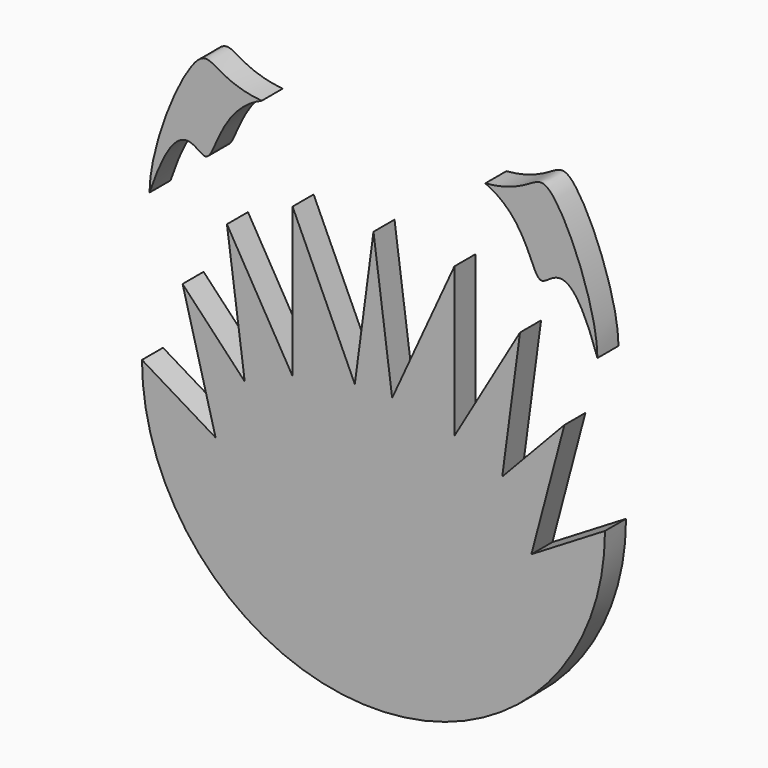
from build123d import *

# Parameters (mm, degrees)
F1_DEPTH = 5.08


with BuildPart() as f1:
    # F0 (on Front) → F1 (new body)
    with BuildSketch(Plane.XZ):
        with BuildLine():
            Line((-30.4917079704, -8.5969122879), (-44.7117361696, 0))
            ThreePointArc((-44.7117361696, 0), (0, -44.7117361696), (44.7117361696, 0))
            Line((44.7117361696, 0), (30.4917079704, -8.5969122879))
            Line((30.4917079704, -8.5969122879), (36.8702813996, 15.4620256321))
            Line((36.8702813996, 15.4620256321), (24.8657964922, 2.7749148631))
            Line((24.8657964922, 2.7749148631), (28.3017228247, 28.4015839336))
            Line((28.3017228247, 28.4015839336), (15.6278407007, 6.6893406487))
            Line((15.6278407007, 6.6893406487), (15.6278407007, 35.5272355899))
            Line((15.6278407007, 35.5272355899), (3.6053249558, 9.237256494))
            Line((3.6053249558, 9.237256494), (0, 36.3292721449))
            Line((0, 36.3292721449), (-3.6053249558, 9.237256494))
            Line((-3.6053249558, 9.237256494), (-15.6278407007, 35.5272355899))
            Line((-15.6278407007, 35.5272355899), (-15.6278407007, 6.6893406487))
            Line((-15.6278407007, 6.6893406487), (-28.3017228247, 28.4015839336))
            Line((-28.3017228247, 28.4015839336), (-24.8657964922, 2.7749148631))
            Line((-24.8657964922, 2.7749148631), (-36.8702813996, 15.4620256321))
            Line((-36.8702813996, 15.4620256321), (-30.4917079704, -8.5969122879))
        make_face()
    extrude(amount=F1_DEPTH)


with BuildPart() as f1b:
    # F0 (on Front) → F1, piece 2 (new body)
    with BuildSketch(Plane.XZ):
        with BuildLine():
            add(Edge.make_bspline(
                [(-43.2581901172, 28.9142417867), (-43.2581901172, 37.2790971041), (-32.8213132961, 62.5909789579), (-29.919565422, 52.343014737), (-21.5866644317, 51.5744184906)],
                knots=[0, 0, 0, 0, 0.6002335301, 1, 1, 1, 1], degree=3))
            add(Edge.make_bspline(
                [(-43.2581901172, 28.9142417867), (-37.5419406421, 45.9948715537), (-30.8065651402, 30.2143125781), (-29.919565422, 48.017363362), (-21.5866644317, 51.5744184906)],
                knots=[0, 0, 0, 0, 0.4810173452, 1, 1, 1, 1], degree=3))
        make_face()
    extrude(amount=F1_DEPTH)


with BuildPart() as f1c:
    # F0 (on Front) → F1, piece 3 (new body)
    with BuildSketch(Plane.XZ):
        with BuildLine():
            add(Edge.make_bspline(
                [(43.2581901172, 28.9142417867), (37.5419406421, 45.9948715537), (30.8065651402, 30.2143125781), (29.919565422, 48.017363362), (21.5866644317, 51.5744184906)],
                knots=[0, 0, 0, 0, 0.4810173452, 1, 1, 1, 1], degree=3))
            add(Edge.make_bspline(
                [(43.2581901172, 28.9142417867), (43.2581901172, 37.2790971041), (32.8213132961, 62.5909789579), (29.919565422, 52.343014737), (21.5866644317, 51.5744184906)],
                knots=[0, 0, 0, 0, 0.6002335301, 1, 1, 1, 1], degree=3))
        make_face()
    extrude(amount=F1_DEPTH)


solid = Compound([f1.part, f1b.part, f1c.part])
